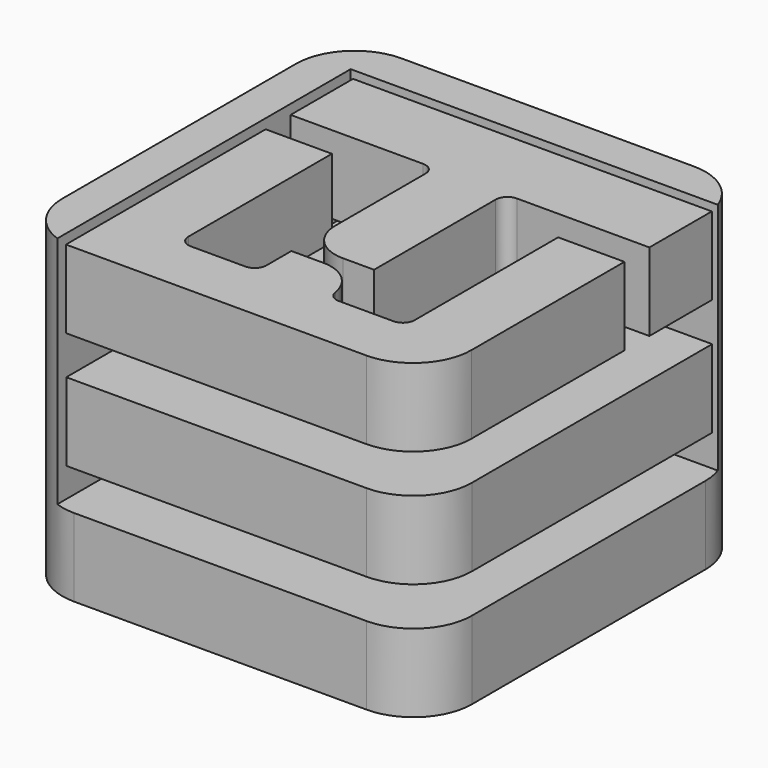
from build123d import *

# Parameters (mm, degrees)
F0_W          = 17
F0_H          = 20
F1_DEPTH      = 10
F1_DEPTH_BACK = 10
F5_DEPTH      = 10
F5_DEPTH_BACK = 70
F6_W          = 105
F6_H          = 104.889372
F7_DEPTH      = 10
F8_W          = 92
F8_H          = 92
F9_DEPTH      = 10
F10_R         = 15
F10_2_R       = 15
F10_3_R       = 15
F11_R         = 3
F12_R         = 10


with BuildPart() as f1:
    # F0 (on Top) → F1 (new body, two sides)
    with BuildSketch(Plane.XY) as f1_sk:
        Polygon((45, -45), (45, 19), (28, 19), (28, -30), (8, -30), (8, -19), (-10, -19), (-10, -30), (-30, -30), (-30, 19), (-47, 19), (-47, -45), align=None)
        with Locations((-38.5, 37)):
            Rectangle(F0_W, F0_H)
        Polygon((-10, -15), (8, -15), (8, 27), (45, 27), (45, 47), (-30, 47), (-30, 27), (-10, 27), align=None)
    extrude(amount=F1_DEPTH)
    extrude(f1_sk.sketch, amount=-F1_DEPTH_BACK)

    # F10#2
    f10_2_edges = [f1.edges().sort_by_distance(p)[0] for p in [
        (45, -45, 0),
    ]]
    fillet(f10_2_edges, radius=F10_2_R)

    # F11
    f11_edges = [f1.edges().sort_by_distance(p)[0] for p in [
        (8, -30, 0),
        (-30, -30, 0),
        (-10, -30, 0),
        (28, -30, 0),
        (-10, 27, 0),
        (8, 27, 0),
    ]]
    fillet(f11_edges, radius=F11_R)

    # F12
    f12_edges = [f1.edges().sort_by_distance(p)[0] for p in [
        (-10, -15, 0),
        (8, -19, 0),
    ]]
    fillet(f12_edges, radius=F12_R)


with BuildPart() as f5:
    # F4 (on Top) → F5 (new body, two sides)
    with BuildSketch(Plane.XY) as f5_sk:
        Polygon((-60, -44.889372), (-50, -44.889372), (-50, 50), (45, 50), (45, 60), (-60, 60), align=None)
    extrude(amount=F5_DEPTH)
    extrude(f5_sk.sketch, amount=-F5_DEPTH_BACK)

    # F6 (on offset) → F7 (join, symmetric)
    with BuildSketch(Plane.XY.offset(-60)):
        with Locations((-7.5, 7.555314)):
            Rectangle(F6_W, F6_H)
    extrude(amount=F7_DEPTH, both=True)

    # F10
    f10_edges = [f5.edges().sort_by_distance(p)[0] for p in [
        (45, 60, -30),
        (-60, -44.889372, -30),
        (45, -44.889372, -60),
        (-60, 60, -30),
    ]]
    fillet(f10_edges, radius=F10_R)


with BuildPart() as f9:
    # F8 (on offset) → F9 (new body, symmetric)
    with BuildSketch(Plane.XY.offset(-30)):
        with Locations((-1, 1.110628)):
            Rectangle(F8_W, F8_H)
    extrude(amount=F9_DEPTH, both=True)

    # F10#3
    f10_3_edges = [f9.edges().sort_by_distance(p)[0] for p in [
        (45, -44.889372, -30),
    ]]
    fillet(f10_3_edges, radius=F10_3_R)


solid = Compound([f1.part, f5.part, f9.part])
